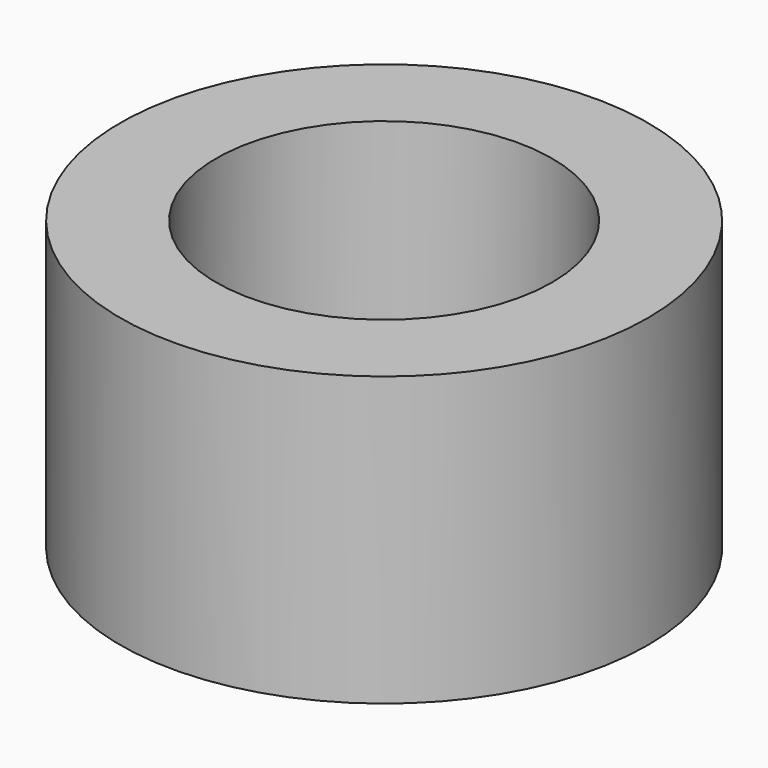
from build123d import *

# Parameters (mm, degrees)
CYLINDER001_R     = 1.75
CYLINDER001_DEPTH = 3
CYLINDER_R        = 2.75
CYLINDER_DEPTH    = 3


with BuildPart() as interior:
    # Cylinder001 → Cylinder001 (new body)
    with BuildSketch(Plane.XY):
        Circle(CYLINDER001_R)
    extrude(amount=CYLINDER001_DEPTH)


with BuildPart() as spacer:
    # Cylinder → Cylinder (new body)
    with BuildSketch(Plane.XY):
        Circle(CYLINDER_R)
    extrude(amount=CYLINDER_DEPTH)

    # Cut: cut interior
    add(interior.part, mode=Mode.SUBTRACT)


solid = spacer.part
